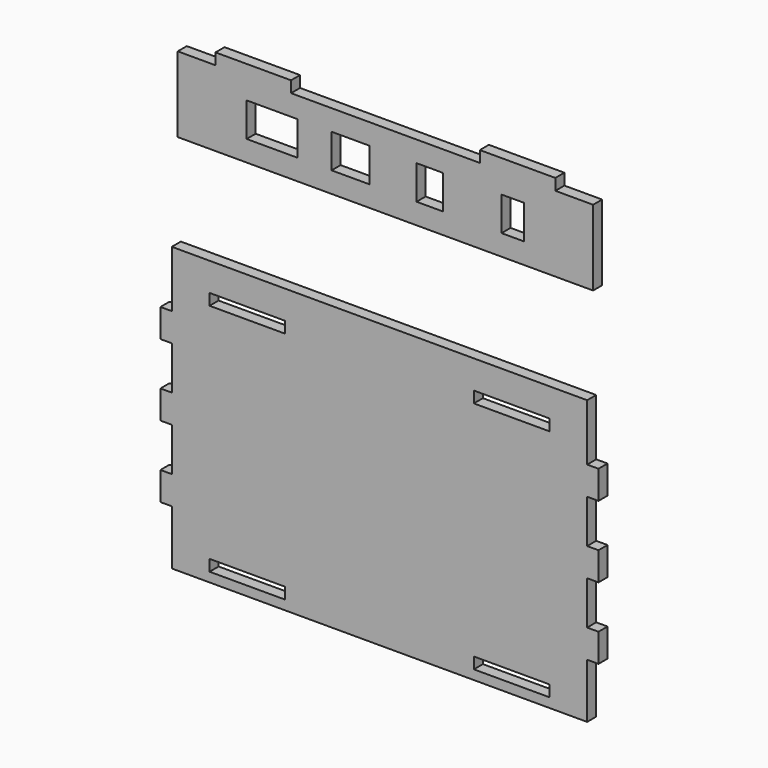
from build123d import *

# Parameters (mm, degrees)
F0_W     = 40
F0_H     = 6
F1_DEPTH = 6
F0_W_2   = 27
F0_H_2   = 18
F0_W_3   = 20
F0_W_4   = 14
F0_W_5   = 12
F2_DEPTH = 6


with BuildPart() as f1:
    # F0 (on Front) → F1 (new body)
    with BuildSketch(Plane.XZ):
        Polygon((138.056193, -39.549025), (-81.943807, -39.549025), (-81.943807, -69.549025), (-87.943807, -69.549025), (-87.943807, -84.549025), (-81.943807, -84.549025), (-81.943807, -107.549025), (-87.943807, -107.549025), (-87.943807, -122.549025), (-81.943807, -122.549025), (-81.943807, -145.549025), (-87.943807, -145.549025), (-87.943807, -160.549025), (-81.943807, -160.549025), (-81.943807, -189.549025), (138.056193, -189.549025), (138.056193, -160.549025), (144.056193, -160.549025), (144.056193, -145.549025), (138.056193, -145.549025), (138.056193, -122.549025), (144.056193, -122.549025), (144.056193, -107.549025), (138.056193, -107.549025), (138.056193, -84.549025), (144.056193, -84.549025), (144.056193, -69.549025), (138.056193, -69.549025), align=None)
        with Locations((-41.943807, -181.549025)):
            Rectangle(F0_W, F0_H, mode=Mode.SUBTRACT)
        with Locations((98.056193, -181.549025)):
            Rectangle(F0_W, F0_H, mode=Mode.SUBTRACT)
        with Locations((-41.943807, -57.549025)):
            Rectangle(F0_W, F0_H, mode=Mode.SUBTRACT)
        with Locations((98.056193, -57.549025)):
            Rectangle(F0_W, F0_H, mode=Mode.SUBTRACT)
    extrude(amount=F1_DEPTH)


with BuildPart() as f2:
    # F0 (on Front) → F2 (new body)
    with BuildSketch(Plane.XZ):
        Polygon((-58.798436, 52.616164), (-78.798436, 52.616164), (-78.798436, 12.616164), (141.201564, 12.616164), (141.201564, 52.616164), (121.201564, 52.616164), (121.201564, 58.616164), (81.201564, 58.616164), (81.201564, 52.616164), (-18.798436, 52.616164), (-18.798436, 58.616164), (-58.798436, 58.616164), align=None)
        with Locations((-28.798436, 32.616164)):
            Rectangle(F0_W_2, F0_H_2, mode=Mode.SUBTRACT)
        with Locations((12.701564, 32.616164)):
            Rectangle(F0_W_3, F0_H_2, mode=Mode.SUBTRACT)
        with Locations((54.701564, 32.616164)):
            Rectangle(F0_W_4, F0_H_2, mode=Mode.SUBTRACT)
        with Locations((98.701564, 32.616164)):
            Rectangle(F0_W_5, F0_H_2, mode=Mode.SUBTRACT)
    extrude(amount=F2_DEPTH)


solid = Compound([f1.part, f2.part])
